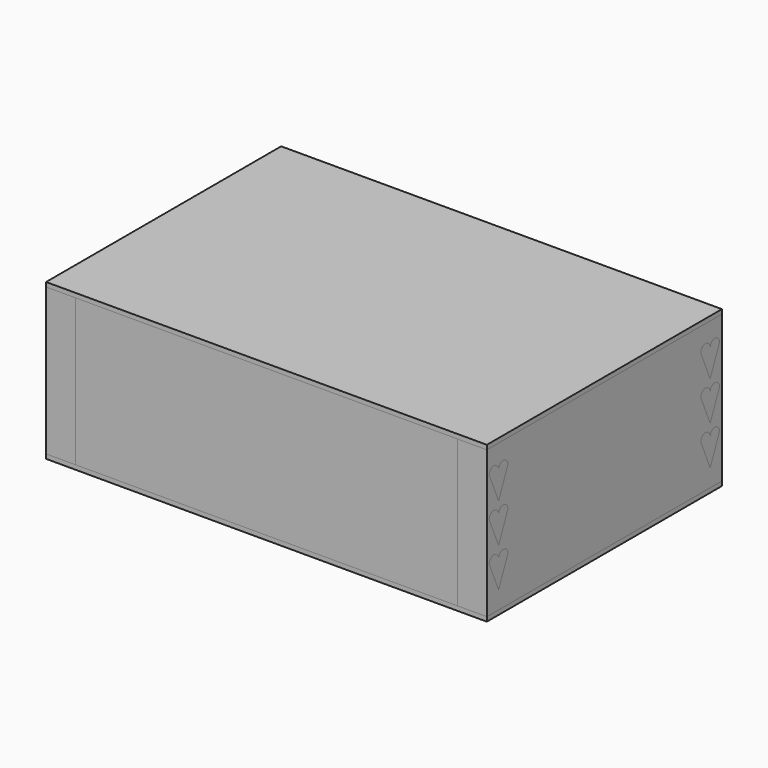
from build123d import *

# Parameters (mm, degrees)
SKETCH_W         = 300
SKETCH_H         = 200
PAD_DEPTH        = 3
ARRAY002_Z_COUNT = 2
ARRAY002_Z_PITCH = 103
PAD009_DEPTH     = 20
ARRAY005_X_COUNT = 2
ARRAY005_X_PITCH = 280
ARRAY005_Z_COUNT = 3
ARRAY005_Z_PITCH = 26.666667
PAD008_DEPTH     = 20
ARRAY006_X_COUNT = 2
ARRAY006_X_PITCH = 280
ARRAY006_Z_COUNT = 3
ARRAY006_Z_PITCH = 26.666667
PAD007_DEPTH     = 20
ARRAY001_X_COUNT = 2
ARRAY001_X_PITCH = 280
ARRAY001_Z_COUNT = 3
ARRAY001_Z_PITCH = 26.666667
PAD006_DEPTH     = 20
ARRAY_X_COUNT    = 2
ARRAY_X_PITCH    = 280
ARRAY_Z_COUNT    = 3
ARRAY_Z_PITCH    = 26.666667
SKETCH002_W      = 200
SKETCH002_H      = 100
PAD002_DEPTH     = 20
ARRAY003_X_COUNT = 2
ARRAY003_X_PITCH = 280
SKETCH010_W      = 20
SKETCH010_H      = 100
PAD010_DEPTH     = 20
ARRAY007_X_COUNT = 2
ARRAY007_X_PITCH = 280
ARRAY007_Y_COUNT = 2
ARRAY007_Y_PITCH = 180
SKETCH004_W      = 300
SKETCH004_H      = 100
PAD004_DEPTH     = 20
ARRAY004_Y_COUNT = 2
ARRAY004_Y_PITCH = 180


with BuildPart() as array_covers:
    # Sketch → Pad (new body)
    with BuildSketch(Plane.XY):
        with Locations((150, 100)):
            Rectangle(SKETCH_W, SKETCH_H)
    extrude(amount=-PAD_DEPTH)

    # Array002 Z: Array, Covers ×2


with BuildPart() as array_covers_1:
    add(array_covers.part)
    with Locations(*[(0, 0, i * ARRAY002_Z_PITCH) for i in range(1, ARRAY002_Z_COUNT)]):
        add(array_covers.part)


with BuildPart() as array_joints_dowels_back:
    # Sketch008 → Pad009 (new body)
    with BuildSketch(Plane(origin=(0, 200, 0), x_dir=(0, 1, 0), z_dir=(1, 0, 0))):
        with BuildLine():
            Line((-18, 30.666667), (-10, 12))
            Line((-2, 30.666667), (-10, 12))
            ThreePointArc((-2, 30.666667), (-6, 34.666667), (-10, 30.666667))
            ThreePointArc((-10, 30.666667), (-14, 34.666667), (-18, 30.666667))
        make_face()
    extrude(amount=PAD009_DEPTH)

    # Array005 X: Array, Joints, Dowels, Back ×2


with BuildPart() as array_joints_dowels_back_1:
    add(array_joints_dowels_back.part)
    with Locations(*[(i * ARRAY005_X_PITCH, 0, 0) for i in range(1, ARRAY005_X_COUNT)]):
        add(array_joints_dowels_back.part)

    # Array005 Z: Array, Joints, Dowels, Back ×3


with BuildPart() as array_joints_dowels_back_2:
    add(array_joints_dowels_back_1.part)
    with Locations(*[(0, 0, i * ARRAY005_Z_PITCH) for i in range(1, ARRAY005_Z_COUNT)]):
        add(array_joints_dowels_back_1.part)


with BuildPart() as array_joints_dowels_front:
    # Sketch009 → Pad008 (new body)
    with BuildSketch(Plane.YZ):
        with BuildLine():
            Line((2, 30.666667), (10, 12))
            Line((18, 30.666667), (10, 12))
            ThreePointArc((18, 30.666667), (14, 34.666667), (10, 30.666667))
            ThreePointArc((10, 30.666667), (6, 34.666667), (2, 30.666667))
        make_face()
    extrude(amount=PAD008_DEPTH)

    # Array006 X: Array, Joints, Dowels, Front ×2


with BuildPart() as array_joints_dowels_front_1:
    add(array_joints_dowels_front.part)
    with Locations(*[(i * ARRAY006_X_PITCH, 0, 0) for i in range(1, ARRAY006_X_COUNT)]):
        add(array_joints_dowels_front.part)

    # Array006 Z: Array, Joints, Dowels, Front ×3


with BuildPart() as array_joints_dowels_front_2:
    add(array_joints_dowels_front_1.part)
    with Locations(*[(0, 0, i * ARRAY006_Z_PITCH) for i in range(1, ARRAY006_Z_COUNT)]):
        add(array_joints_dowels_front_1.part)


with BuildPart() as array_joints_cut_back:
    # Sketch007 → Pad007 (new body)
    with BuildSketch(Plane(origin=(0, 200, 0), x_dir=(0, 1, 0), z_dir=(1, 0, 0))):
        with BuildLine():
            Line((-10, 12), (-2, 30.666667))
            ThreePointArc((-2, 30.666667), (-6, 34.666667), (-10, 30.666667))
            ThreePointArc((-10, 30.666667), (-14, 34.666667), (-18, 30.666667))
            Line((-10, 12), (-18, 30.666667))
        make_face()
    extrude(amount=PAD007_DEPTH)

    # Array001 X: Array, Joints, Cut, Back ×2


with BuildPart() as array_joints_cut_back_1:
    add(array_joints_cut_back.part)
    with Locations(*[(i * ARRAY001_X_PITCH, 0, 0) for i in range(1, ARRAY001_X_COUNT)]):
        add(array_joints_cut_back.part)

    # Array001 Z: Array, Joints, Cut, Back ×3


with BuildPart() as array_joints_cut_back_2:
    add(array_joints_cut_back_1.part)
    with Locations(*[(0, 0, i * ARRAY001_Z_PITCH) for i in range(1, ARRAY001_Z_COUNT)]):
        add(array_joints_cut_back_1.part)


with BuildPart() as fusion:
    # Sketch006 → Pad006 (new body)
    with BuildSketch(Plane.YZ):
        with BuildLine():
            Line((10, 12), (18, 30.666667))
            ThreePointArc((18, 30.666667), (14, 34.666667), (10, 30.666667))
            ThreePointArc((10, 30.666667), (6, 34.666667), (2, 30.666667))
            Line((10, 12), (2, 30.666667))
        make_face()
    extrude(amount=PAD006_DEPTH)

    # Array X: Fusion ×2


with BuildPart() as fusion_1:
    add(fusion.part)
    with Locations(*[(i * ARRAY_X_PITCH, 0, 0) for i in range(1, ARRAY_X_COUNT)]):
        add(fusion.part)

    # Array Z: Fusion ×3


with BuildPart() as fusion_2:
    add(fusion_1.part)
    with Locations(*[(0, 0, i * ARRAY_Z_PITCH) for i in range(1, ARRAY_Z_COUNT)]):
        add(fusion_1.part)

    # Fusion: union Array, Joints, Cut, Back
    add(array_joints_cut_back_2.part)


with BuildPart() as sides_cut:
    # Sketch002 → Pad002 (new body)
    with BuildSketch(Plane.YZ):
        with Locations((100, 50)):
            Rectangle(SKETCH002_W, SKETCH002_H)
    extrude(amount=PAD002_DEPTH)

    # Array003 X: Sides, cut ×2


with BuildPart() as sides_cut_1:
    add(sides_cut.part)
    with Locations(*[(i * ARRAY003_X_PITCH, 0, 0) for i in range(1, ARRAY003_X_COUNT)]):
        add(sides_cut.part)

    # Cut: cut Fusion
    add(fusion_2.part, mode=Mode.SUBTRACT)


with BuildPart() as array_boxcut:
    # Sketch010 → Pad010 (new body)
    with BuildSketch(Plane.YZ):
        with Locations((10, 50)):
            Rectangle(SKETCH010_W, SKETCH010_H)
    extrude(amount=PAD010_DEPTH)

    # Array007 X: Array, BoxCut ×2


with BuildPart() as array_boxcut_1:
    add(array_boxcut.part)
    with Locations(*[(i * ARRAY007_X_PITCH, 0, 0) for i in range(1, ARRAY007_X_COUNT)]):
        add(array_boxcut.part)

    # Array007 Y: Array, BoxCut ×2


with BuildPart() as array_boxcut_2:
    add(array_boxcut_1.part)
    with Locations(*[(0, i * ARRAY007_Y_PITCH, 0) for i in range(1, ARRAY007_Y_COUNT)]):
        add(array_boxcut_1.part)


with BuildPart() as fronts_cut:
    # Sketch004 → Pad004 (new body)
    with BuildSketch(Plane.XZ):
        with Locations((150, 50)):
            Rectangle(SKETCH004_W, SKETCH004_H)
    extrude(amount=-PAD004_DEPTH)

    # Array004 Y: Fronts, cut ×2


with BuildPart() as fronts_cut_1:
    add(fronts_cut.part)
    with Locations(*[(0, i * ARRAY004_Y_PITCH, 0) for i in range(1, ARRAY004_Y_COUNT)]):
        add(fronts_cut.part)

    # Cut001: cut Array, BoxCut
    add(array_boxcut_2.part, mode=Mode.SUBTRACT)


solid = Compound([array_covers_1.part, array_joints_dowels_back_2.part, array_joints_dowels_front_2.part, sides_cut_1.part, fronts_cut_1.part])
